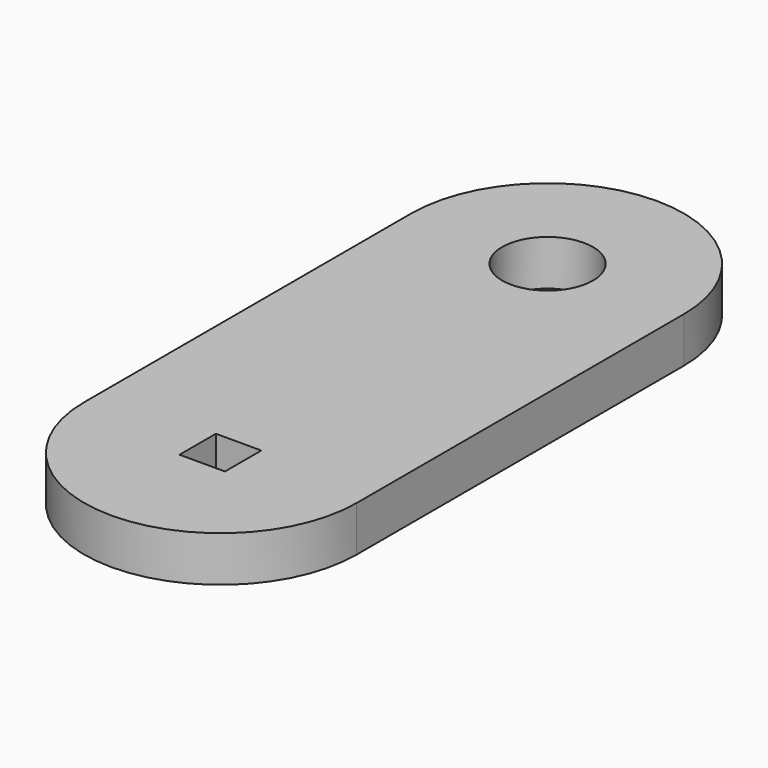
from build123d import *

# Parameters (mm, degrees)
F0_R     = 10
F1_DEPTH = 10


with BuildPart() as f1:
    # F0 (on Top) → F1 (new body)
    with BuildSketch(Plane.XY):
        with BuildLine():
            Line((-30, 120), (-30, 30))
            ThreePointArc((-30, 30), (0, 0), (30, 30))
            Line((30, 30), (30, 120))
            ThreePointArc((30, 120), (0, 150), (-30, 120))
        make_face()
        Polygon((-5, 25), (-5, 30), (-5, 35), (5, 35), (5, 25), align=None, mode=Mode.SUBTRACT)
        with Locations((0, 120)):
            Circle(F0_R, mode=Mode.SUBTRACT)
    extrude(amount=F1_DEPTH)


solid = f1.part
